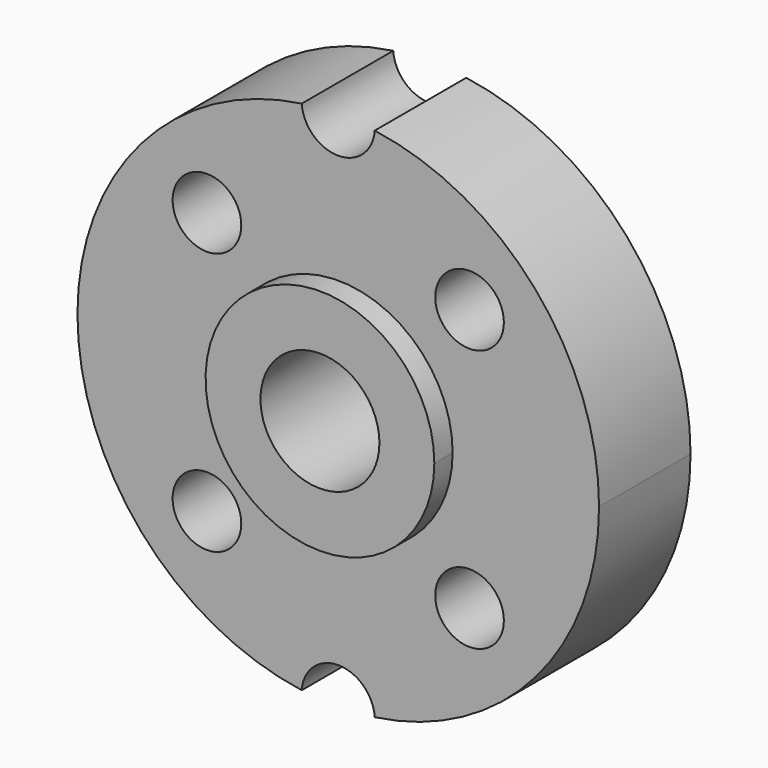
from build123d import *

# Parameters (mm, degrees)
F0_R     = 7.5
F1_DEPTH = 25
F0_R_2   = 13
F2_DEPTH = 30


with BuildPart() as f1:
    # F0 (on Front) → F1 (new body)
    with BuildSketch(Plane.XZ):
        with BuildLine():
            ThreePointArc((7.980277, 56.438596), (0, 49), (-7.980277, 56.438596))
            ThreePointArc((-7.980277, 56.438596), (-43.034148, 37.377294), (-57, 0))
            ThreePointArc((-57, 0), (-43.034148, -37.377294), (-7.980277, -56.438596))
            ThreePointArc((-7.980277, -56.438596), (-5.454758, -51.148025), (0, -49))
            ThreePointArc((0, -49), (5.454758, -51.148025), (7.980277, -56.438596))
            ThreePointArc((7.980277, -56.438596), (43.034148, -37.377294), (57, 0))
            ThreePointArc((57, 0), (43.034148, 37.377294), (7.980277, 56.438596))
        make_face()
        with Locations((-28.696903, -28.696903)):
            Circle(F0_R, mode=Mode.SUBTRACT)
        with Locations((28.696903, -28.696903)):
            Circle(F0_R, mode=Mode.SUBTRACT)
        with Locations((-28.696903, 28.696903)):
            Circle(F0_R, mode=Mode.SUBTRACT)
        with BuildLine():
            ThreePointArc((25, 0), (17.67767, -17.67767), (0, -25))
            ThreePointArc((0, -25), (-17.67767, 17.67767), (25, 0))
        make_face(mode=Mode.SUBTRACT)
        with Locations((28.696903, 28.696903)):
            Circle(F0_R, mode=Mode.SUBTRACT)
    extrude(amount=F1_DEPTH)

    # F0 (on Front) → F2 (join)
    with BuildSketch(Plane.XZ):
        with BuildLine():
            ThreePointArc((25, 0), (-17.67767, 17.67767), (0, -25))
            ThreePointArc((0, -25), (17.67767, -17.67767), (25, 0))
        make_face()
        Circle(F0_R_2, mode=Mode.SUBTRACT)
    extrude(amount=F2_DEPTH)


solid = f1.part
